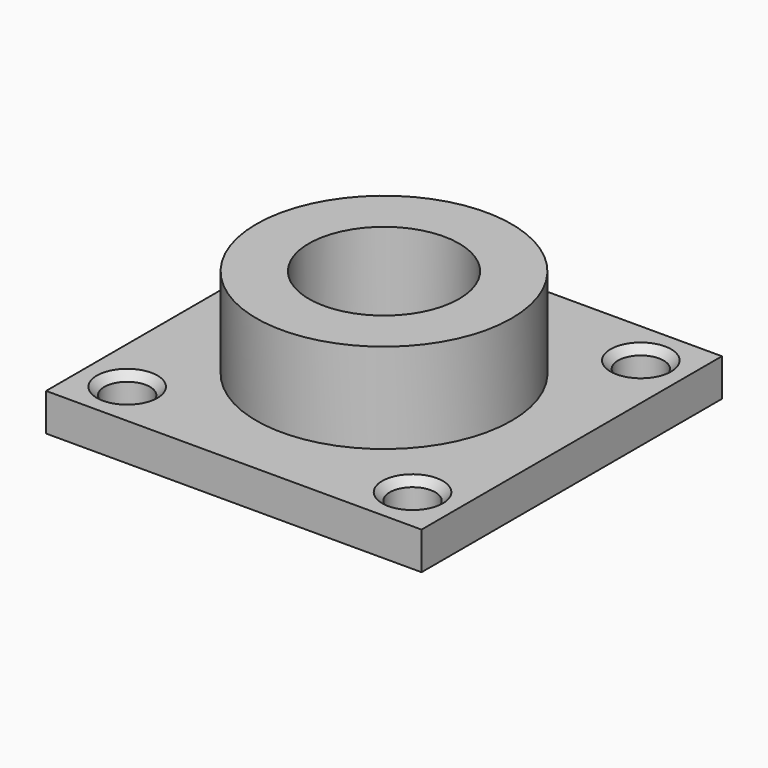
from build123d import *

# Parameters (mm, degrees)
F0_W     = 254
F0_H     = 254
F0_R     = 50.8
F1_DEPTH = 25.4
F2_R     = 86.3600000739
F2_R_2   = 50.8
F3_DEPTH = 60.96
F4_R     = 15.431866001
F5_DEPTH = 162.56
F6_SIZE  = 5.08


with BuildPart() as f1:
    # F0 (on Top) → F1 (new body)
    with BuildSketch(Plane.XY):
        Rectangle(F0_W, F0_H)
        Circle(F0_R, mode=Mode.SUBTRACT)
    extrude(amount=F1_DEPTH)

    # F2 (on face) → F3 (join)
    with BuildSketch(Plane.XY.offset(25.4)):
        Circle(F2_R)
        Circle(F2_R_2, mode=Mode.SUBTRACT)
    extrude(amount=F3_DEPTH)

    # F4 (on face) → F5 (cut)
    with BuildSketch(Plane(origin=(0, 0, 0), x_dir=(1, 0, 0), z_dir=(0, 0, -1))):
        with Locations((-96.5199992061, -96.5199992061)):
            Circle(F4_R)
        with Locations((96.5199992061, -96.5199992061)):
            Circle(F4_R)
        with Locations((96.5199992061, 96.5199992061)):
            Circle(F4_R)
        with Locations((-96.5199992061, 96.5199992061)):
            Circle(F4_R)
    extrude(amount=-F5_DEPTH, mode=Mode.SUBTRACT)

    # F6
    f6_edges = [f1.edges().sort_by_distance(p)[0] for p in [
        (-111.951865, 96.519999, 25.4),
        (81.088133, 96.519999, 25.4),
        (81.088133, -96.519999, 25.4),
        (-111.951865, -96.519999, 25.4),
    ]]
    chamfer(f6_edges, length=F6_SIZE)


solid = f1.part
